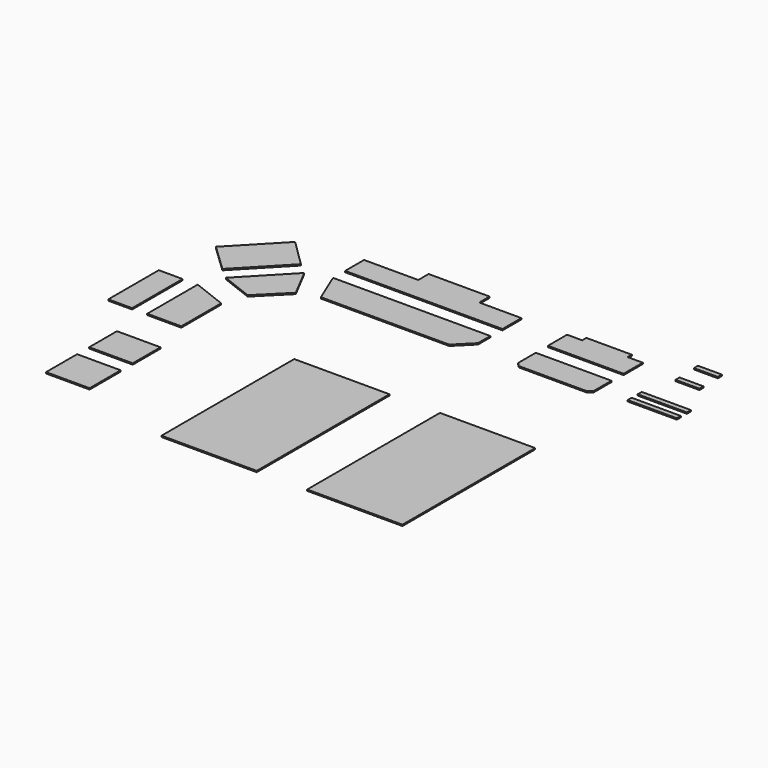
from build123d import *

# Parameters (mm, degrees)
F0_W     = 876.3
F0_H     = 698.5
F0_H_2   = 781.05
F0_W_2   = 1917.7
F0_H_3   = 3340.1
F0_W_3   = 479.425
F0_H_4   = 1270
F0_W_4   = 990.6
F0_H_5   = 101.6
F0_W_5   = 482.6
F1_DEPTH = 25.4


with BuildPart() as f1:
    # F0 (on Top) → F1 (new body)
    with BuildSketch(Plane.XY):
        Polygon((-3848.500829, -1299.788802), (-3309.685462, -760.973434), (-3625.85, -152.4), (-4487.419216, -1050.580185), align=None)
        Polygon((0, 0), (-3168.65, 0), (-2906.408057, -633.108057), (-321.958057, -633.108057), (0, -311.15), align=None)
        Polygon((-2076.45, 781.05), (-3168.65, 781.05), (-3168.65, 304.8), (0, 304.8), (0, 781.05), (-847.725, 781.05), (-847.725, 1041.4), (-2076.45, 1041.4), align=None)
        Polygon((-4000.900829, -1774.480185), (-4686.700829, -1507.780185), (-4686.700829, -2777.780185), (-4000.900829, -2777.780185), align=None)
        with Locations((-4248.550829, -3889.030185)):
            Rectangle(F0_W, F0_H)
        with Locations((-4248.550829, -4933.605185)):
            Rectangle(F0_W, F0_H_2)
        with Locations((-958.85, -4210.05)):
            Rectangle(F0_W_2, F0_H_3)
        with Locations((1974.85, -4210.05)):
            Rectangle(F0_W_2, F0_H_3)
        with Locations((-5231.213329, -2142.780185)):
            Rectangle(F0_W_3, F0_H_4)
        Polygon((1219.2, 787.4), (914.4, 787.4), (914.4, 304.8), (2438.4, 304.8), (2438.4, 787.4), (2133.6, 787.4), (2133.6, 892.175), (1219.2, 892.175), align=None)
        Polygon((2438.4, 0), (914.4, 0), (914.4, -444.5), (989.0125, -519.1125), (2363.7875, -519.1125), (2438.4, -444.5), align=None)
        Polygon((-4716.019216, -848.973935), (-3854.45, 49.20625), (-4397.717302, 583.532591), (-5268.078041, -323.812699), align=None)
        with Locations((3543.3, -50.8)):
            Rectangle(F0_W_4, F0_H_5)
        with Locations((3543.3, -304.8)):
            Rectangle(F0_W_4, F0_H_5)
        with Locations((3422.74536, 1197.185312)):
            Rectangle(F0_W_5, F0_H_5)
        with Locations((3447.100533, 703.992163)):
            Rectangle(F0_W_5, F0_H_5)
    extrude(amount=F1_DEPTH)


solid = f1.part
